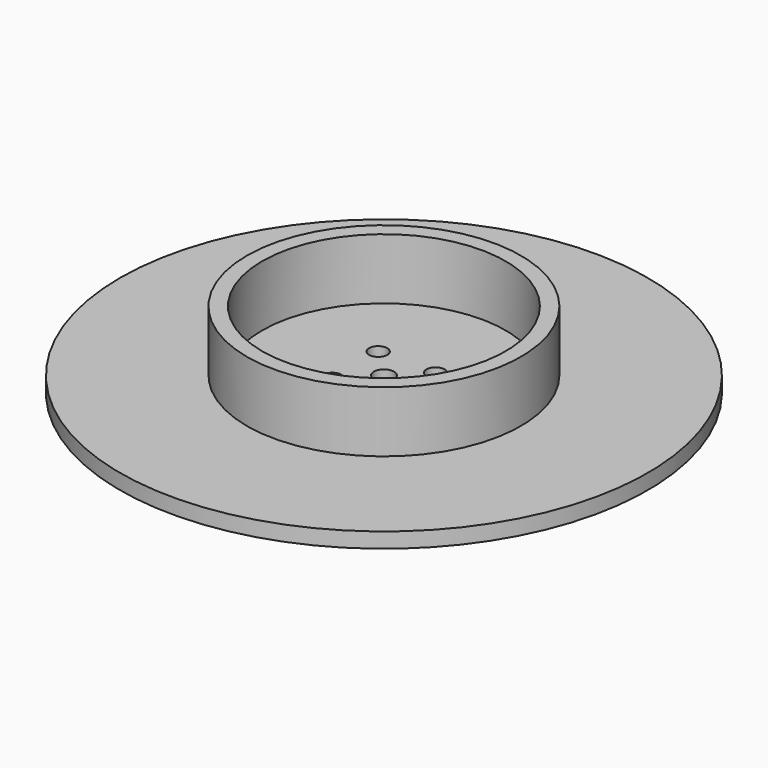
from build123d import *

# Parameters (mm, degrees)
SKETCH001_R          = 52
SKETCH001_R_2        = 2
PAD001_DEPTH         = 3
SKETCH_R             = 27
SKETCH_R_2           = 24
PAD_DEPTH            = 12
SKETCH002_R          = 1.8
POCKET_DEPTH         = 5
BODY_PLACEMENT_ANGLE = 180


with BuildPart() as part:
    # Sketch001 → Pad001 (new body)
    with BuildSketch(Plane.XY):
        Circle(SKETCH001_R)
        Circle(SKETCH001_R_2, mode=Mode.SUBTRACT)
    extrude(amount=-PAD001_DEPTH)

    # Sketch → Pad (join)
    with BuildSketch(Plane.XY):
        Circle(SKETCH_R)
        Circle(SKETCH_R_2, mode=Mode.SUBTRACT)
    extrude(amount=PAD_DEPTH)

    # Sketch002 → Pocket (cut)
    with BuildSketch(Plane.XY):
        with Locations((5.656854, 5.656854)):
            Circle(SKETCH002_R)
        with Locations((-5.656854, 5.656854)):
            Circle(SKETCH002_R)
        with Locations((-5.656854, -5.656854)):
            Circle(SKETCH002_R)
        with Locations((5.656854, -5.656854)):
            Circle(SKETCH002_R)
    extrude(amount=-POCKET_DEPTH, mode=Mode.SUBTRACT)


with BuildPart() as part_1:
    # Body placement: moved
    add(part.part.moved(Location((0, 0, 63))).rotate(Axis((0, 0, 63), (0, 0, -1)), BODY_PLACEMENT_ANGLE))


solid = part_1.part
